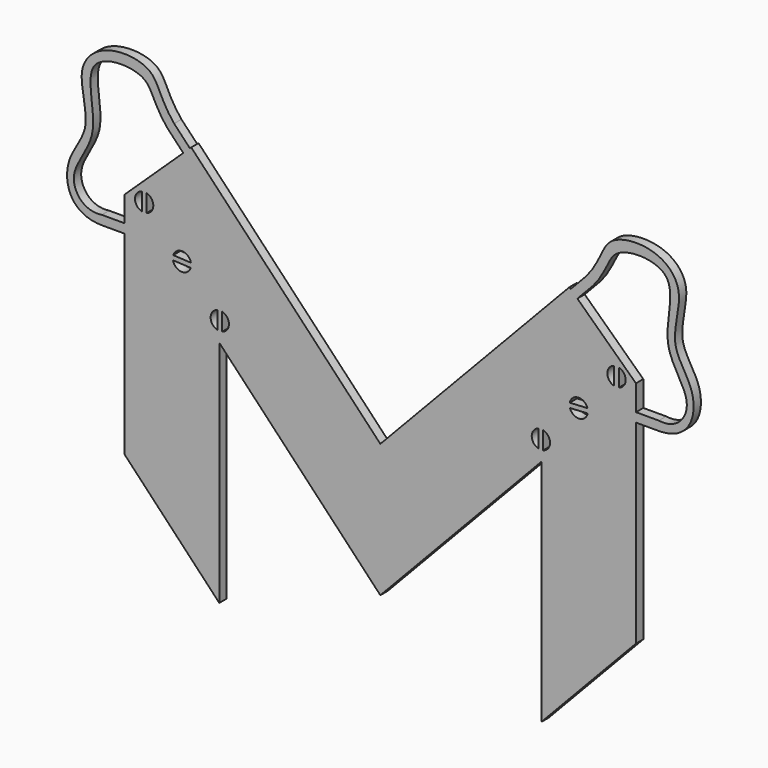
from build123d import *

# Parameters (mm, degrees)
F0_W     = 2.5
F0_H     = 1
F1_DEPTH = 1


with BuildPart() as f1:
    # F0 (on Front) → F1 (new body)
    with BuildSketch(Plane.XZ):
        Polygon((-21.5041256621, 31.0570161438), (-27.8949729542, 25), (-17.5765327521, 14.1128611749), (0, -4.4323984176), (17.5765327521, 14.1128611749), (27.8949729542, 25), (21.5041256621, 31.0570161438), (20.7783164071, 31.7449121572), (20.6368804041, 31.8789601347), (0, 10.1046824845), (-20.6368804041, 31.8789601347), (-20.7783164071, 31.7449121572), align=None)
        with BuildLine():
            ThreePointArc((-20.6667853668, 20.7860190692), (-20.6519878152, 20.6876385753), (-20.6470389706, 20.5882746076))
            ThreePointArc((-20.6470389706, 20.5882746076), (-20.6587438403, 20.4357205667), (-20.6935844414, 20.2867377762))
            ThreePointArc((-20.6935844414, 20.2867377762), (-21.7006371199, 19.5897120215), (-22.6272925745, 20.390530146))
            ThreePointArc((-22.6272925745, 20.390530146), (-22.6456015568, 20.6418727569), (-22.6004934999, 20.8898114391))
            ThreePointArc((-22.6004934999, 20.8898114391), (-21.5934408213, 21.5868371938), (-20.6667853668, 20.7860190692))
        make_face(mode=Mode.SUBTRACT)
        with BuildLine():
            ThreePointArc((-25.5244150514, 25.9113759742), (-24.9838456364, 25.5555025734), (-24.7744150515, 24.9431301377))
            ThreePointArc((-24.7744150515, 24.9431301377), (-24.9838456364, 24.330757702), (-25.5244150514, 23.9748843011))
            ThreePointArc((-25.5244150514, 23.9748843011), (-25.7744150514, 23.9431301377), (-26.0244150514, 23.9748843011))
            ThreePointArc((-26.0244150514, 23.9748843011), (-26.7744150515, 24.9431301377), (-26.0244150514, 25.9113759742))
            ThreePointArc((-26.0244150514, 25.9113759742), (-25.7744150514, 25.9431301377), (-25.5244150514, 25.9113759742))
        make_face(mode=Mode.SUBTRACT)
        with BuildLine():
            ThreePointArc((-17.2696628899, 17.2016649142), (-16.7290934748, 16.8457915133), (-16.5196628898, 16.2334190776))
            ThreePointArc((-16.5196628898, 16.2334190776), (-16.7290934748, 15.6210466419), (-17.2696628898, 15.265173241))
            ThreePointArc((-17.2696628898, 15.265173241), (-17.5196628899, 15.2334190776), (-17.7696628899, 15.2651732411))
            ThreePointArc((-17.7696628899, 15.2651732411), (-18.5196628898, 16.2334190776), (-17.7696628898, 17.2016649141))
            ThreePointArc((-17.7696628898, 17.2016649141), (-17.5196628898, 17.2334190776), (-17.2696628899, 17.2016649142))
        make_face(mode=Mode.SUBTRACT)
        with BuildLine():
            ThreePointArc((17.7696628898, 17.2016649141), (18.3102323049, 16.8457915133), (18.5196628898, 16.2334190776))
            ThreePointArc((18.5196628898, 16.2334190776), (18.3102323049, 15.6210466419), (17.7696628899, 15.2651732411))
            ThreePointArc((17.7696628899, 15.2651732411), (17.5196628899, 15.2334190776), (17.2696628898, 15.265173241))
            ThreePointArc((17.2696628898, 15.265173241), (16.5196628898, 16.2334190776), (17.2696628899, 17.2016649142))
            ThreePointArc((17.2696628899, 17.2016649142), (17.5196628898, 17.2334190776), (17.7696628898, 17.2016649141))
        make_face(mode=Mode.SUBTRACT)
        with BuildLine():
            ThreePointArc((22.6004934999, 20.8898114391), (22.635334101, 20.7408286485), (22.6470389706, 20.5882746076))
            ThreePointArc((22.6470389706, 20.5882746076), (22.6420901261, 20.48891064), (22.6272925745, 20.390530146))
            ThreePointArc((22.6272925745, 20.390530146), (21.7006371199, 19.5897120215), (20.6935844414, 20.2867377762))
            ThreePointArc((20.6935844414, 20.2867377762), (20.6484763845, 20.5346764583), (20.6667853668, 20.7860190692))
            ThreePointArc((20.6667853668, 20.7860190692), (21.5934408213, 21.5868371938), (22.6004934999, 20.8898114391))
        make_face(mode=Mode.SUBTRACT)
        with BuildLine():
            ThreePointArc((25.5244150514, 25.9113759742), (25.7744150514, 25.9431301377), (26.0244150514, 25.9113759742))
            ThreePointArc((26.0244150514, 25.9113759742), (26.5649844665, 25.5555025734), (26.7744150515, 24.9431301377))
            ThreePointArc((26.7744150515, 24.9431301377), (26.5649844665, 24.330757702), (26.0244150514, 23.9748843011))
            ThreePointArc((26.0244150514, 23.9748843011), (25.7744150514, 23.9431301377), (25.5244150514, 23.9748843011))
            ThreePointArc((25.5244150514, 23.9748843011), (24.7744150515, 24.9431301377), (25.5244150514, 25.9113759742))
        make_face(mode=Mode.SUBTRACT)
        with BuildLine():
            ThreePointArc((-20.6935844414, 20.2867377762), (-20.6587438403, 20.4357205667), (-20.6470389706, 20.5882746076))
            ThreePointArc((-20.6470389706, 20.5882746076), (-20.6519878152, 20.6876385753), (-20.6667853668, 20.7860190692))
            Line((-20.6667853668, 20.7860190692), (-22.6004934998, 20.8898114391))
            ThreePointArc((-22.6004934999, 20.8898114391), (-22.6456015568, 20.6418727569), (-22.6272925745, 20.390530146))
            Line((-22.6272925745, 20.390530146), (-20.6935844414, 20.2867377762))
        make_face()
        with BuildLine():
            Line((-17.2696628899, 15.2651732411), (-17.2696628899, 17.2016649142))
            ThreePointArc((-17.2696628899, 17.2016649142), (-17.5196628898, 17.2334190776), (-17.7696628898, 17.2016649141))
            Line((-17.7696628899, 17.2016649142), (-17.7696628899, 15.2651732411))
            ThreePointArc((-17.7696628899, 15.2651732411), (-17.5196628899, 15.2334190776), (-17.2696628898, 15.265173241))
        make_face()
        with BuildLine():
            Line((-25.5244150514, 23.9748843011), (-25.5244150514, 25.9113759742))
            ThreePointArc((-25.5244150514, 25.9113759742), (-25.7744150514, 25.9431301377), (-26.0244150514, 25.9113759742))
            Line((-26.0244150514, 25.9113759742), (-26.0244150514, 23.9748843011))
            ThreePointArc((-26.0244150514, 23.9748843011), (-25.7744150514, 23.9431301377), (-25.5244150514, 23.9748843011))
        make_face()
        with BuildLine():
            Line((17.7696628899, 15.2651732411), (17.7696628899, 17.2016649142))
            ThreePointArc((17.7696628898, 17.2016649141), (17.5196628898, 17.2334190776), (17.2696628899, 17.2016649142))
            Line((17.2696628899, 17.2016649142), (17.2696628899, 15.2651732411))
            ThreePointArc((17.2696628898, 15.265173241), (17.5196628899, 15.2334190776), (17.7696628899, 15.2651732411))
        make_face()
        with BuildLine():
            ThreePointArc((22.6272925745, 20.390530146), (22.6420901261, 20.48891064), (22.6470389706, 20.5882746076))
            ThreePointArc((22.6470389706, 20.5882746076), (22.635334101, 20.7408286485), (22.6004934999, 20.8898114391))
            Line((22.6004934998, 20.8898114391), (20.6667853668, 20.7860190692))
            ThreePointArc((20.6667853668, 20.7860190692), (20.6484763845, 20.5346764583), (20.6935844414, 20.2867377762))
            Line((20.6935844414, 20.2867377762), (22.6272925745, 20.390530146))
        make_face()
        with BuildLine():
            Line((26.0244150514, 23.9748843011), (26.0244150514, 25.9113759742))
            ThreePointArc((26.0244150514, 25.9113759742), (25.7744150514, 25.9431301377), (25.5244150514, 25.9113759742))
            Line((25.5244150514, 25.9113759742), (25.5244150514, 23.9748843011))
            ThreePointArc((25.5244150514, 23.9748843011), (25.7744150514, 23.9431301377), (26.0244150514, 23.9748843011))
        make_face()
        with BuildLine():
            add(Edge.make_bspline(
                [(-30.3949729542, 22.2266743183), (-32.3459120476, 21.9464057728), (-34.814820051, 25.1569130987), (-29.9406562875, 29.4624113714), (-33.3229612403, 37.5029221755), (-24.6348075097, 37.699224987), (-24.8789525053, 34.8056361785), (-23.2238656958, 32.8715392813)],
                knots=[0, 0, 0, 0, 0.175592168, 0.3818384458, 0.6049955425, 0.8042805633, 1, 1, 1, 1], degree=3))
            Line((-23.2238656958, 32.8715392813), (-22.4980564408, 33.5594352948))
            add(Edge.make_bspline(
                [(-30.3949729542, 21.2266743183), (-33.769396033, 21.2623445922), (-35.1304093787, 26.256700748), (-31.1198421968, 29.8097298229), (-33.5455166511, 35.5363763005), (-30.1206826208, 38.8775311144), (-24.1579853587, 38.3605596931), (-24.126560546, 35.5280691092), (-22.4980564408, 33.5594352948)],
                knots=[0, 0, 0, 0, 0.1826946464, 0.3469217666, 0.5189889886, 0.6689693608, 0.8311464613, 1, 1, 1, 1], degree=3))
            Line((-30.3949729542, 21.2266743183), (-30.3949729542, 22.2266743183))
        make_face()
        Polygon((-23.2238656958, 32.8715392813), (-21.5041256621, 31.0570161438), (-20.7783164071, 31.7449121572), (-22.4980564408, 33.5594352948), align=None)
        with Locations((-29.1449729542, 21.7266743183)):
            Rectangle(F0_W, F0_H)
        Polygon((-17.5765327521, 14.1128611749), (-27.8949729541, 25), (-27.8949729542, 22.2266743183), (-27.8949729542, 21.2266743183), (-27.8949729542, 0), (-17.5765327521, -10.8871388251), align=None)
        Polygon((27.8949729542, 25), (17.5765327521, 14.1128611749), (17.5765327521, -10.8871388251), (27.8949729542, 0), (27.8949729542, 21.2266743183), (27.8949729542, 22.2266743183), align=None)
        with BuildLine():
            Line((22.4980564408, 33.5594352948), (23.2238656958, 32.8715392813))
            add(Edge.make_bspline(
                [(30.3949729542, 22.2266743183), (32.3459120476, 21.9464057728), (34.814820051, 25.1569130987), (29.9406562875, 29.4624113714), (33.3229612403, 37.5029221755), (24.6348075097, 37.699224987), (24.8789525053, 34.8056361785), (23.2238656958, 32.8715392813)],
                knots=[0, 0, 0, 0, 0.175592168, 0.3818384458, 0.6049955425, 0.8042805633, 1, 1, 1, 1], degree=3))
            Line((30.3949729542, 22.2266743183), (30.3949729542, 21.2266743183))
            add(Edge.make_bspline(
                [(30.3949729542, 21.2266743183), (33.769396033, 21.2623445922), (35.1304093787, 26.256700748), (31.1198421968, 29.8097298229), (33.5455166511, 35.5363763005), (30.1206826208, 38.8775311144), (24.1579853587, 38.3605596931), (24.126560546, 35.5280691092), (22.4980564408, 33.5594352948)],
                knots=[0, 0, 0, 0, 0.1826946464, 0.3469217666, 0.5189889886, 0.6689693608, 0.8311464613, 1, 1, 1, 1], degree=3))
        make_face()
        with Locations((29.1449729542, 21.7266743183)):
            Rectangle(F0_W, F0_H)
        Polygon((20.7783164071, 31.7449121572), (21.5041256621, 31.0570161438), (23.2238656958, 32.8715392813), (22.4980564408, 33.5594352948), align=None)
    extrude(amount=F1_DEPTH)


solid = f1.part
